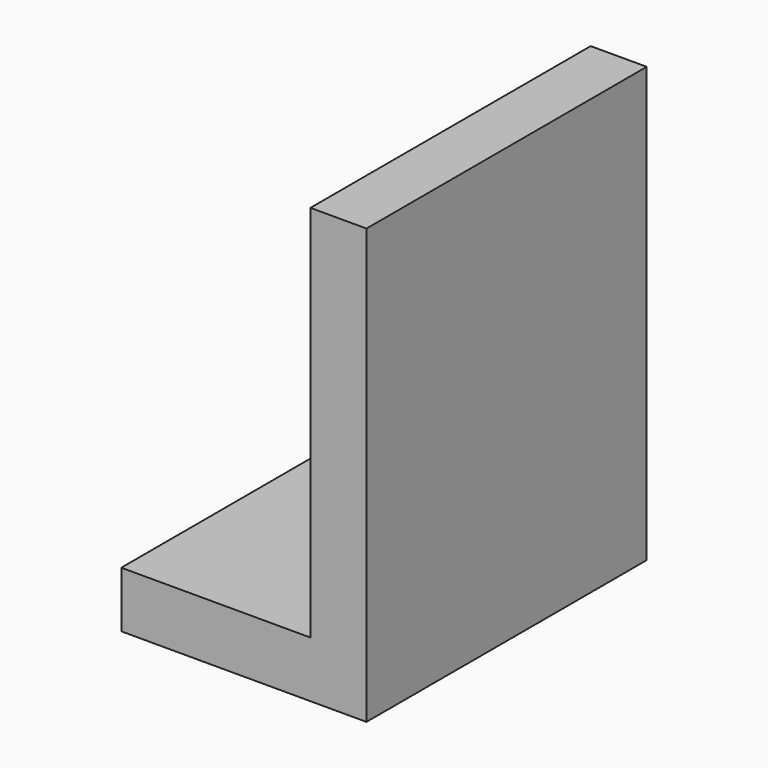
from build123d import *

# Parameters (mm, degrees)
F0_W     = 27
F0_H     = 8
F1_DEPTH = 50
F3_D     = 6.8


with BuildPart() as f1:
    # F0 (on Front) → F1 (new body)
    with BuildSketch(Plane.XZ):
        with Locations((5.6900825575, -2.8987607956)):
            Rectangle(F0_W, F0_H)
        Polygon((19.1900825575, 55.1012392044), (19.1900825575, 1.1012392044), (19.1900825575, -6.8987607956), (27.1900825575, -6.8987607956), (27.1900825575, 55.1012392044), align=None)
    extrude(amount=F1_DEPTH)

    # F3 (through all)
    with Locations(Plane(origin=(0, 0, -6.8987607956), x_dir=(1, 0, 0), z_dir=(0, 0, -1))):
        with Locations((9.6900825575, 25)):
            Hole(F3_D / 2)


solid = f1.part
